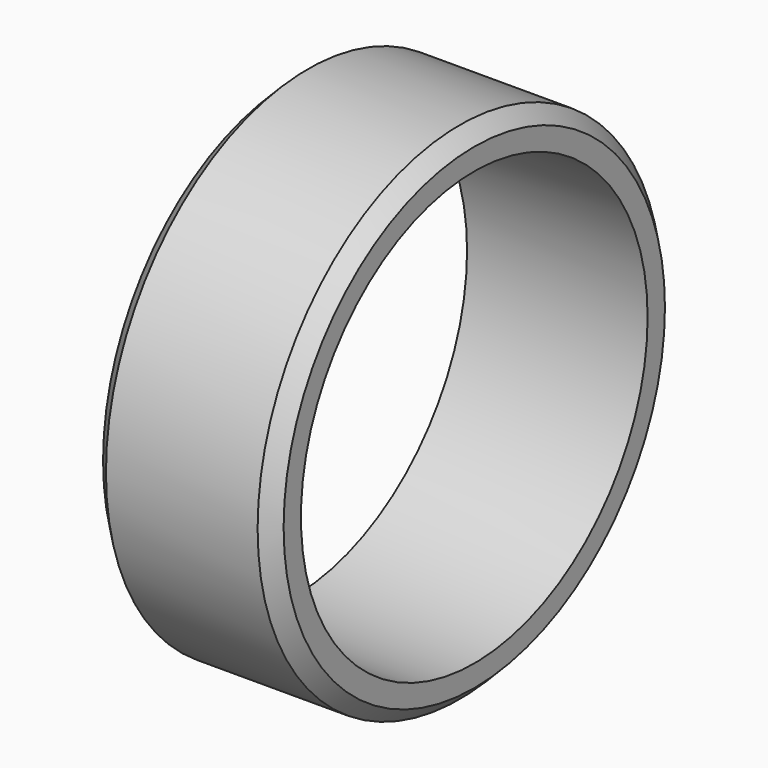
from build123d import *

# Parameters (mm, degrees)
F0_R     = 44.45
F0_R_2   = 38.1
F1_DEPTH = 15.875
F2_SIZE  = 2.54


with BuildPart() as f1:
    # F0 (on Right) → F1 (new body, symmetric)
    with BuildSketch(Plane.YZ):
        Circle(F0_R)
        Circle(F0_R_2, mode=Mode.SUBTRACT)
    extrude(amount=F1_DEPTH, both=True)

    # F2
    f2_edges = [f1.edges().sort_by_distance(p)[0] for p in [
        (15.875, -44.45, 0),
        (-15.875, -44.45, 0),
    ]]
    chamfer(f2_edges, length=F2_SIZE)


solid = f1.part
